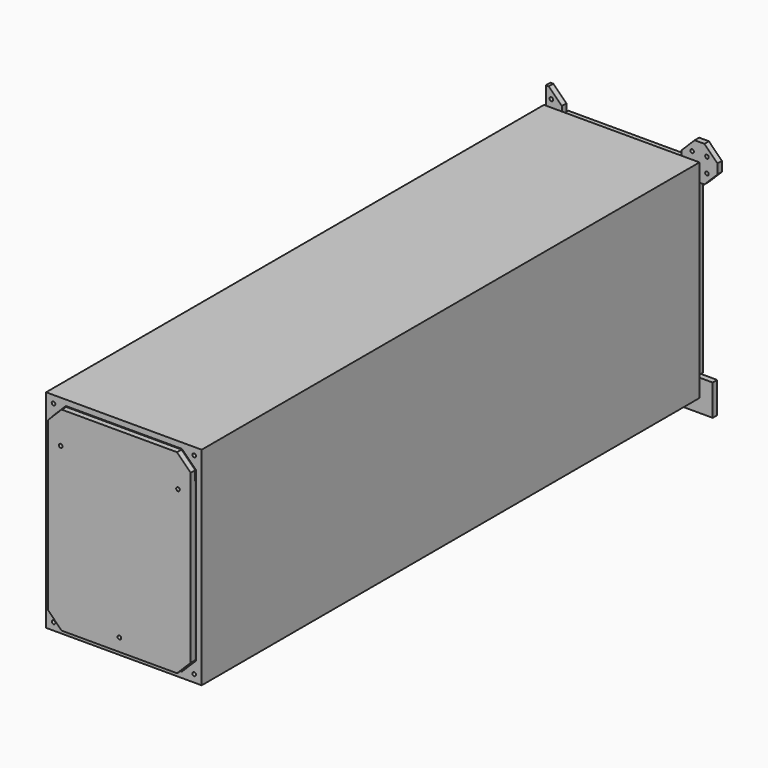
from build123d import *

# Parameters (mm, degrees)
SKETCH004_R      = 0.95
EXTRUDE004_DEPTH = 3
SKETCH005_R      = 0.95
EXTRUDE005_DEPTH = 3
SKETCH006_R      = 0.95
EXTRUDE006_DEPTH = 3
SKETCH007_R      = 0.95
EXTRUDE007_DEPTH = 3
EXTRUDE008_DEPTH = 1
SKETCH003_R      = 0.95
EXTRUDE010_DEPTH = 3
SKETCH001_W      = 82.5
SKETCH001_H      = 110
SKETCH001_R      = 0.95
EXTRUDE_DEPTH    = 330
CHAMFER001_SIZE  = 1
SKETCH010_R      = 0.95
EXTRUDE011_DEPTH = 10
EXTRUDE012_DEPTH = 50
SKETCH002_R      = 12.5
EXTRUDE002_DEPTH = 3
EXTRUDE001_DEPTH = 330
EXTRUDE013_DEPTH = 50


with BuildPart() as joint2_e:
    # Sketch004 (on Face17 of Extrude) → Extrude004 (new body)
    with BuildSketch(Plane(origin=(0, 0, 0), x_dir=(-1, 0, 0), z_dir=(0, 1, 0))):
        Polygon((-9.486144, 110), (-9.486144, 107.414214), (-2.585786, 100.513856), (-1, 100.513856), (-1, 119.486144), (-2.585786, 119.486144), (-9.486144, 112.585786), align=None)
        with Locations((-3.95, 106.05)):
            Circle(SKETCH004_R, mode=Mode.SUBTRACT)
        with Locations((-3.95, 113.95)):
            Circle(SKETCH004_R, mode=Mode.SUBTRACT)
    extrude(amount=EXTRUDE004_DEPTH)


with BuildPart() as joint4_e:
    # Sketch005 (on Face17 of Extrude) → Extrude005 (new body)
    with BuildSketch(Plane(origin=(0, 0, 0), x_dir=(-1, 0, 0), z_dir=(0, 1, 0))):
        Polygon((-85.085786, 100.513856), (-79.914214, 100.513856), (-73.013856, 107.414214), (-73.013856, 112.585786), (-79.914214, 119.486144), (-85.085786, 119.486144), (-91.986144, 112.585786), (-91.986144, 107.414214), align=None)
        with Locations((-78.55, 106.05)):
            Circle(SKETCH005_R, mode=Mode.SUBTRACT)
        with Locations((-78.55, 113.95)):
            Circle(SKETCH005_R, mode=Mode.SUBTRACT)
        with Locations((-86.45, 106.05)):
            Circle(SKETCH005_R, mode=Mode.SUBTRACT)
        with Locations((-86.45, 113.95)):
            Circle(SKETCH005_R, mode=Mode.SUBTRACT)
    extrude(amount=EXTRUDE005_DEPTH)


with BuildPart() as obj1:
    # Sketch006 (on Face17 of Extrude) → Extrude006 (new body)
    with BuildSketch(Plane(origin=(0, 0, 0), x_dir=(-1, 0, 0), z_dir=(0, 1, 0))):
        Polygon((-89.5, 9.486144), (-89.5, -7), (-73.013856, -7), (-73.013856, 2.684781), (-79.815219, 9.486144), align=None)
        with Locations((-78.55, 3.95)):
            Circle(SKETCH006_R, mode=Mode.SUBTRACT)
    extrude(amount=EXTRUDE006_DEPTH)


with BuildPart() as obj2:
    # Sketch007 (on Face17 of Extrude) → Extrude007 (new body)
    with BuildSketch(Plane(origin=(0, 0, 0), x_dir=(-1, 0, 0), z_dir=(0, 1, 0))):
        Polygon((-9.536144, 2.535786), (-2.585786, 9.486144), (0, 9.486144), (2.585786, 9.486144), (9.536144, 2.535786), (9.536144, -7), (-9.536144, -7), (-9.536144, 0), align=None)
        with Locations((-3.95, 3.95)):
            Circle(SKETCH007_R, mode=Mode.SUBTRACT)
        with Locations((3.95, 3.95)):
            Circle(SKETCH007_R, mode=Mode.SUBTRACT)
    extrude(amount=EXTRUDE007_DEPTH)


with BuildPart() as sep:
    # Sketch008 → Extrude008 (new body)
    with BuildSketch(Plane.XZ.offset(330)):
        Polygon((3.4, 94.748171), (6.8, 94.748171), (6.8, 12.060155), (12.060155, 6.8), (70.439845, 6.8), (75.7, 12.060155), (75.7, 94.748171), (79.1, 94.748171), (79.1, 99.348171), (71.848171, 106.6), (10.651829, 106.6), (3.4, 99.348171), align=None)
    extrude(amount=EXTRUDE008_DEPTH)


with BuildPart() as drawer_back_e:
    # Sketch003 (on Face14 of Extrude001) → Extrude010 (new body)
    with BuildSketch(Plane.XZ.offset(330)):
        Polygon((79.1, 99.348171), (71.848171, 106.6), (10.651829, 106.6), (3.435185, 99.383356), (3.4, 94.348171), (3.4, 10.651829), (10.651829, 3.4), (71.848171, 3.4), (79.1, 10.651829), (79.1, 94.348171), align=None)
        with Locations((10.15, 89.481014)):
            Circle(SKETCH003_R, mode=Mode.SUBTRACT)
        with Locations((41.25, 10.15)):
            Circle(SKETCH003_R, mode=Mode.SUBTRACT)
        with Locations((72.35, 89.481014)):
            Circle(SKETCH003_R, mode=Mode.SUBTRACT)
    extrude(amount=EXTRUDE010_DEPTH)


with BuildPart() as obj3:
    # Sketch001 → Extrude (new body)
    with BuildSketch(Plane.XZ):
        with Locations((41.25, 55)):
            Rectangle(SKETCH001_W, SKETCH001_H)
        with Locations((3.95, 106.05)):
            Circle(SKETCH001_R, mode=Mode.SUBTRACT)
        with Locations((78.55, 106.05)):
            Circle(SKETCH001_R, mode=Mode.SUBTRACT)
        with Locations((3.95, 3.95)):
            Circle(SKETCH001_R, mode=Mode.SUBTRACT)
        with Locations((78.55, 3.95)):
            Circle(SKETCH001_R, mode=Mode.SUBTRACT)
        Polygon((3, 99.513856), (10.486144, 107), (72.013856, 107), (79.5, 99.513856), (79.5, 10.486144), (72.013856, 3), (10.486144, 3), (3, 10.486144), align=None, mode=Mode.SUBTRACT)
    extrude(amount=EXTRUDE_DEPTH)

    # Chamfer001
    chamfer001_edges = [obj3.edges().sort_by_distance(p)[0] for p in [
        (6.743072, 0, 103.256928),
        (41.25, 0, 107),
        (75.756928, 0, 103.256928),
        (79.5, 0, 55),
        (75.756928, 0, 6.743072),
        (41.25, 0, 3),
        (6.743072, 0, 6.743072),
        (3, 0, 55),
    ]]
    chamfer(chamfer001_edges, length=CHAMFER001_SIZE)


with BuildPart() as back_holes_e:
    # Sketch010 → Extrude011 (new body)
    with BuildSketch(Plane.XZ.offset(330)):
        with Locations((10.15, 89.481014)):
            Circle(SKETCH010_R)
        with Locations((72.35, 89.481014)):
            Circle(SKETCH010_R)
        with Locations((41.25, 10.15)):
            Circle(SKETCH010_R)
    extrude(amount=-EXTRUDE011_DEPTH)


with BuildPart() as drawer_back_support_negative_e:
    # Sketch014 (on Face14 of Extrude001) → Extrude012 (new body)
    with BuildSketch(Plane.XZ.offset(330)):
        Polygon((71.848171, 3.4), (79.1, 10.651829), (82.5, 10.651829), (82.5, 0), (0, 0), (0, 10.651829), (3.4, 10.651829), (10.651829, 3.4), align=None)
    extrude(amount=-EXTRUDE012_DEPTH)


with BuildPart() as drawer_back_support001:
    # Sweep: sweep along a path in Sketch012
    with BuildLine(Plane.XZ.offset(330)) as sweep_path:
        Line((15.9, 94.348171), (15.9, 15.9))
        Line((15.9, 15.9), (66.6, 15.9))
        Line((66.6, 15.9), (66.6, 94.348171))
    # Sketch009 (on Edge32 of Extrude001) → Sweep (sweep)
    with BuildSketch(Plane(origin=(52.866667, -110, 94.348171), x_dir=(-1, 0, 0), z_dir=(0, 0, -1))):
        Polygon((46.466667, -220), (36.966667, -220), (36.966667, -210), (46.466667, -200.5), align=None)
    sweep(path=sweep_path.line, is_frenet=True, transition=Transition.RIGHT)

    # Cut: cut drawer_back_support_negative_e
    add(drawer_back_support_negative_e.part, mode=Mode.SUBTRACT)

    # Cut002: cut back_holes_e
    add(back_holes_e.part, mode=Mode.SUBTRACT)


with BuildPart() as drawer_front_e:
    # Sketch002 (on Face13 of Extrude001) → Extrude002 (new body)
    with BuildSketch(Plane(origin=(0, 0, 0), x_dir=(-1, 0, 0), z_dir=(0, 1, 0))):
        Polygon((-82, 99.513856), (-79.5, 99.513856), (-72.013856, 107), (-72.013856, 109.5), (-10.486144, 109.5), (-10.486144, 107), (-3, 99.513856), (-0.5, 99.513856), (-0.5, 10.486144), (-3, 10.486144), (-10.086144, 3.4), (-10.651829, 3.4), (-71.848171, 3.4), (-72.413856, 3.4), (-79.5, 10.486144), (-82, 10.486144), align=None)
        with Locations((-41.25, 87.5)):
            Circle(SKETCH002_R, mode=Mode.SUBTRACT)
    extrude(amount=EXTRUDE002_DEPTH)


with BuildPart() as drawer_tube_e:
    # Sketch (on Face17 of Extrude) → Extrude001 (new body)
    with BuildSketch(Plane(origin=(0, 0, 0), x_dir=(-1, 0, 0), z_dir=(0, 1, 0))):
        Polygon((-79.1, 10.651829), (-71.848171, 3.4), (-10.651829, 3.4), (-3.4, 10.651829), (-3.4, 94.348171), (-6.4, 94.348171), (-6.4, 11.89447), (-11.89447, 6.4), (-70.60553, 6.4), (-76.1, 11.89447), (-76.1, 94.348171), (-79.1, 94.348171), align=None)
    extrude(amount=-EXTRUDE001_DEPTH)


with BuildPart() as drawer_front_support_negative_e:
    # Sketch015 (on Face13 of Extrude001) → Extrude013 (new body)
    with BuildSketch(Plane(origin=(0, 0, 0), x_dir=(-1, 0, 0), z_dir=(0, 1, 0))):
        Polygon((-3.4, 10.651829), (0, 10.651829), (0, 0), (-82.5, 0), (-82.5, 10.651829), (-79.1, 10.651829), (-71.848171, 3.4), (-10.651829, 3.4), align=None)
    extrude(amount=-EXTRUDE013_DEPTH)


with BuildPart() as drawer_inside:
    # Sweep001: sweep along a path in Sketch013
    with BuildLine(Plane.XZ) as sweep001_path:
        Line((16.4, 94.348171), (16.4, 16.4))
        Line((16.4, 16.4), (66.1, 16.4))
        Line((66.1, 16.4), (66.1, 94.348171))
    # Sketch011 (on Face6 of Extrude001) → Sweep001 (sweep)
    with BuildSketch(Plane.XY.offset(94.348171)):
        Polygon((6.4, 0), (6.4, -10), (16.4, 0), align=None)
    sweep(path=sweep001_path.line, is_frenet=True, transition=Transition.RIGHT)

    # Cut001: cut drawer_front_support_negative_e
    add(drawer_front_support_negative_e.part, mode=Mode.SUBTRACT)

    # Fusion: union drawer_back_support001, drawer_front_e, drawer_tube_e
    add(drawer_back_support001.part)
    add(drawer_front_e.part)
    add(drawer_tube_e.part)


solid = Compound([joint2_e.part, joint4_e.part, obj1.part, obj2.part, sep.part, drawer_back_e.part, obj3.part, drawer_inside.part])
